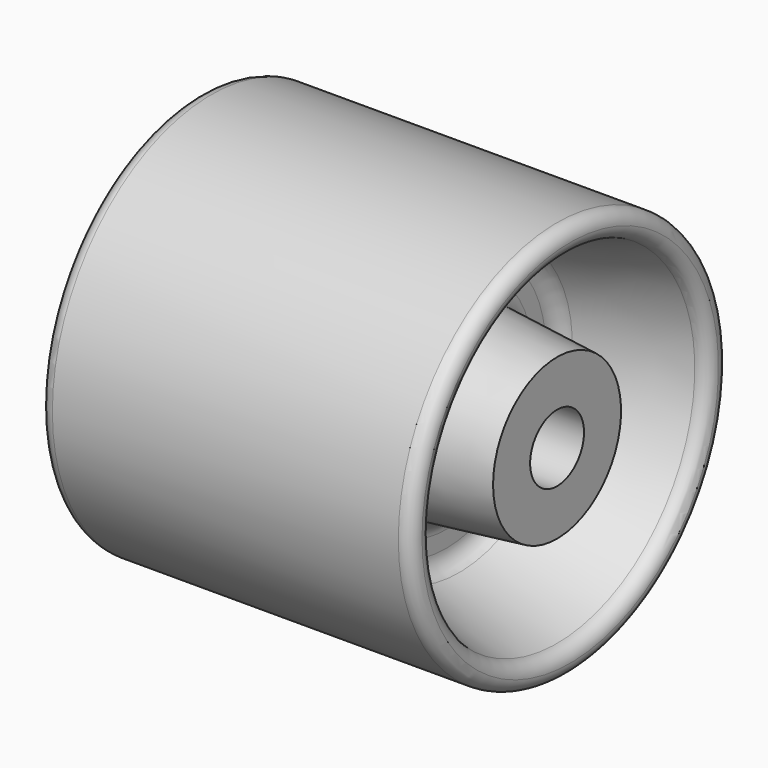
from build123d import *


with BuildPart() as f1:
    # F0 (on Top) → F1 (revolve)
    with BuildSketch(Plane.XY):
        with BuildLine():
            Line((0, -9.314075), (-47.809061, -9.314075))
            Line((-47.809061, -9.314075), (-47.809061, -22.108816))
            Line((-47.809061, -22.108816), (-21.631444, -24.877207))
            ThreePointArc((-21.631444, -24.877207), (-18.440484, -26.50502), (-17.157283, -29.849479))
            Line((-17.157283, -29.849479), (-17.157283, -34.439108))
            ThreePointArc((-17.157283, -34.439108), (-18.13451, -37.408502), (-20.684203, -39.217187))
            Line((-20.684203, -39.217187), (-47.809061, -47.579769))
            ThreePointArc((-47.809061, -47.579769), (-45.240247, -48.643806), (-44.17621, -51.21262))
            ThreePointArc((-44.17621, -51.21262), (-45.240247, -53.781434), (-47.809061, -54.845471))
            Line((-47.809061, -54.845471), (0, -54.845471))
            Line((0, -54.845471), (0, -9.314075))
        make_face()
        with BuildLine():
            Line((47.809061, -9.314075), (0, -9.314075))
            Line((0, -9.314075), (0, -54.845471))
            Line((0, -54.845471), (47.809061, -54.845471))
            ThreePointArc((47.809061, -54.845471), (44.17621, -51.21262), (47.809061, -47.579769))
            Line((47.809061, -47.579769), (20.684203, -39.217187))
            ThreePointArc((20.684203, -39.217187), (18.13451, -37.408502), (17.157283, -34.439108))
            Line((17.157283, -34.439108), (17.157283, -29.849479))
            ThreePointArc((17.157283, -29.849479), (18.440484, -26.50502), (21.631444, -24.877207))
            Line((21.631444, -24.877207), (47.809061, -22.108816))
            Line((47.809061, -22.108816), (47.809061, -9.314075))
        make_face()
        with BuildLine():
            ThreePointArc((-47.809061, -47.579769), (-51.441912, -51.21262), (-47.809061, -54.845471))
            ThreePointArc((-47.809061, -54.845471), (-45.240247, -53.781434), (-44.17621, -51.21262))
            ThreePointArc((-44.17621, -51.21262), (-45.240247, -48.643806), (-47.809061, -47.579769))
        make_face()
        with BuildLine():
            ThreePointArc((47.809061, -47.579769), (44.17621, -51.21262), (47.809061, -54.845471))
            ThreePointArc((47.809061, -54.845471), (50.377874, -53.781434), (51.441912, -51.21262))
            ThreePointArc((51.441912, -51.21262), (50.377874, -48.643806), (47.809061, -47.579769))
        make_face()
    revolve(axis=Axis((0.100167, 0, 0), (1, 0, 0)))


solid = f1.part
